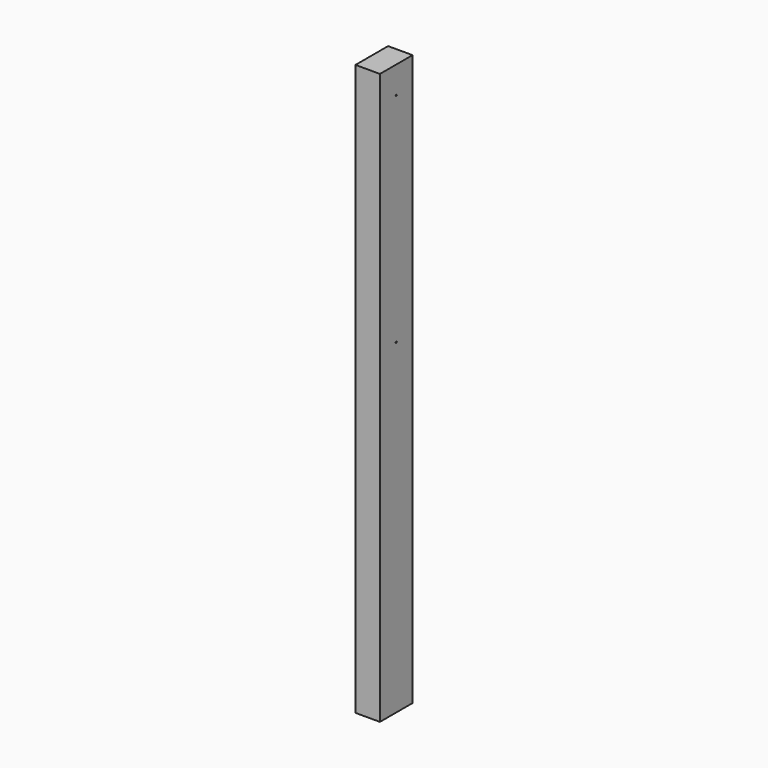
from build123d import *

# Parameters (mm, degrees)
F1_DEPTH = 2100
F3_D     = 5
F3_DEPTH = 25
F3_TIP   = 1.5021515476
F4_D     = 5
F4_DEPTH = 25
F4_TIP   = 1.5021515476


with BuildPart() as f1:
    # F0 (on Top) → F1 (new body)
    with BuildSketch(Plane.XY):
        Polygon((-34.2555230263, 141.6535690603), (-45, 141.6535690603), (-45, -8.3464309397), (45, -8.3464309397), (45, 141.6535690603), (34.2555230263, 141.6535690603), align=None)
    extrude(amount=F1_DEPTH)

    # F3
    with Locations(Plane.YZ.offset(45)):
        with Locations((66.6535690603, 1200)):
            Hole(F3_D / 2, depth=F3_DEPTH)
            with Locations((0, 0, -(F3_DEPTH + F3_TIP / 2))):  # 118° drill point
                Cone(0, F3_D / 2, F3_TIP, mode=Mode.SUBTRACT)

    # F4
    with Locations(Plane.YZ.offset(45)):
        with Locations((66.6535690603, 2000)):
            Hole(F4_D / 2, depth=F4_DEPTH)
            with Locations((0, 0, -(F4_DEPTH + F4_TIP / 2))):  # 118° drill point
                Cone(0, F4_D / 2, F4_TIP, mode=Mode.SUBTRACT)


solid = f1.part
